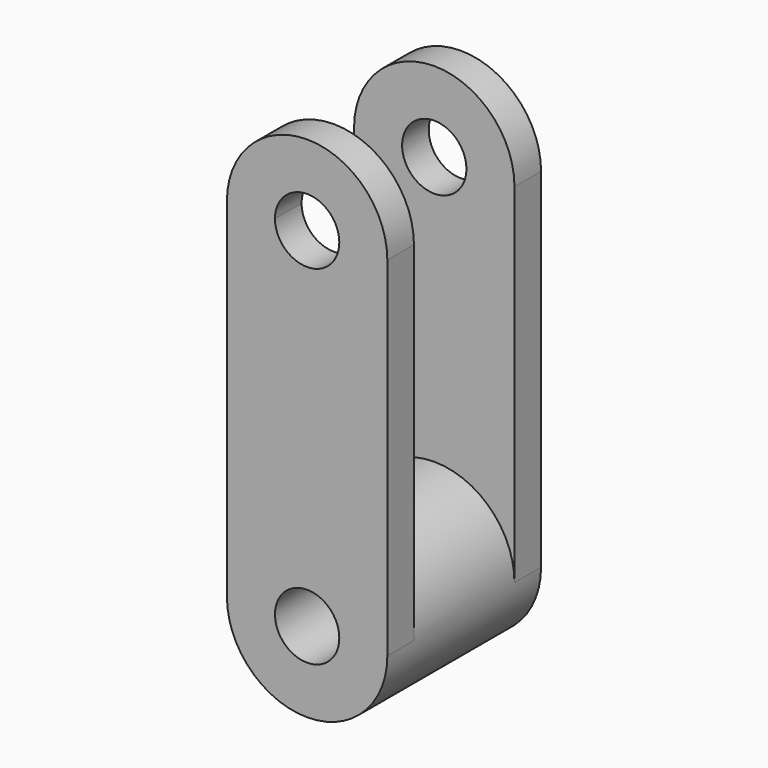
from build123d import *

# Parameters (mm, degrees)
F0_R     = 27.560129
F0_R_2   = 11.050129
F1_DEPTH = 33.02
F3_DEPTH = 11.43
F5_DEPTH = 11.43


with BuildPart() as f1:
    # F0 (on Front) → F1 (new body, symmetric)
    with BuildSketch(Plane.XZ):
        Circle(F0_R)
        Circle(F0_R_2, mode=Mode.SUBTRACT)
    extrude(amount=F1_DEPTH, both=True)

    # F2 (on face) → F3 (join)
    with BuildSketch(Plane.XZ.offset(33.02)):
        with BuildLine():
            Line((-27.560129, 119.717821), (-27.560129, 0))
            ThreePointArc((-27.560129, 0), (0, 27.560129), (27.560129, 0))
            Line((27.560129, 0), (27.560129, 119.717821))
            ThreePointArc((27.560129, 119.717821), (0, 92.157692), (-27.560129, 119.717821))
        make_face()
        with BuildLine():
            ThreePointArc((27.560129, 119.717821), (0, 147.277951), (-27.560129, 119.717821))
            Line((-27.560129, 119.717821), (-11.050129, 119.717821))
            ThreePointArc((-11.050129, 119.717821), (0, 130.767951), (11.050129, 119.717821))
            Line((11.050129, 119.717821), (27.560129, 119.717821))
        make_face()
        with BuildLine():
            Line((-11.050129, 119.717821), (-27.560129, 119.717821))
            ThreePointArc((-27.560129, 119.717821), (0, 92.157692), (27.560129, 119.717821))
            Line((27.560129, 119.717821), (11.050129, 119.717821))
            ThreePointArc((11.050129, 119.717821), (0, 108.667692), (-11.050129, 119.717821))
        make_face()
    extrude(amount=-F3_DEPTH)

    # F4 (on face) → F5 (join)
    with BuildSketch(Plane(origin=(0, 33.02, 0), x_dir=(-1, 0, 0), z_dir=(0, 1, 0))):
        with BuildLine():
            Line((-27.560129, 119.7102), (-27.560129, 0))
            ThreePointArc((-27.560129, 0), (0, 27.560129), (27.560129, 0))
            Line((27.560129, 0), (27.560129, 119.7102))
            ThreePointArc((27.560129, 119.7102), (0, 92.150071), (-27.560129, 119.7102))
        make_face()
        with BuildLine():
            Line((-11.050129, 119.7102), (-27.560129, 119.7102))
            ThreePointArc((-27.560129, 119.7102), (0, 92.150071), (27.560129, 119.7102))
            Line((27.560129, 119.7102), (11.050129, 119.7102))
            ThreePointArc((11.050129, 119.7102), (0, 108.660071), (-11.050129, 119.7102))
        make_face()
        with BuildLine():
            ThreePointArc((27.560129, 119.7102), (0, 147.270329), (-27.560129, 119.7102))
            Line((-27.560129, 119.7102), (-11.050129, 119.7102))
            ThreePointArc((-11.050129, 119.7102), (0, 130.760329), (11.050129, 119.7102))
            Line((11.050129, 119.7102), (27.560129, 119.7102))
        make_face()
    extrude(amount=-F5_DEPTH)


solid = f1.part
